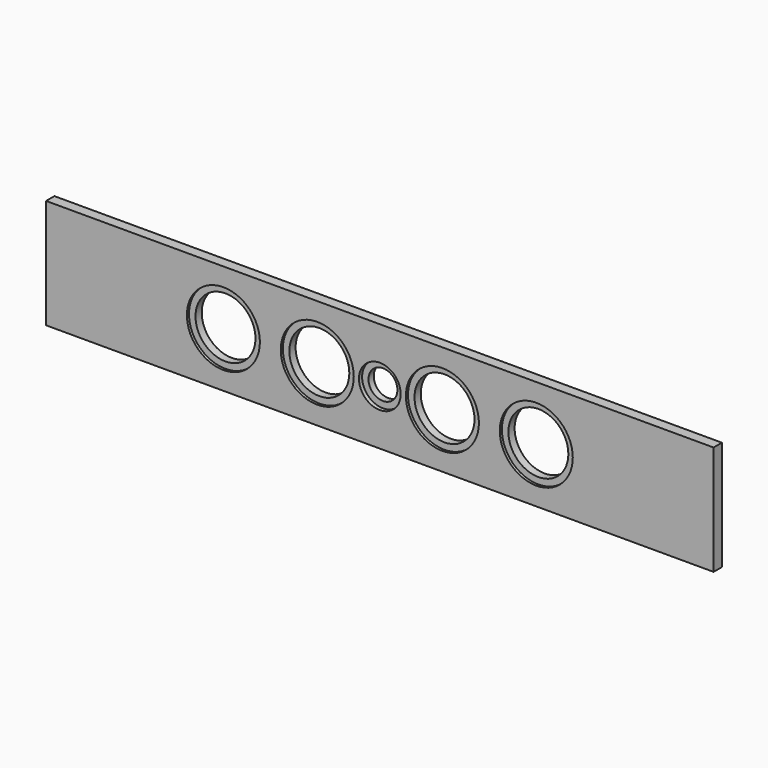
from build123d import *

# Parameters (mm, degrees)
SKETCH_W        = 812.8
SKETCH_H        = 133.35
PAD_DEPTH       = 12.7
SKETCH001_R     = 17.5895
SKETCH001_R_2   = 36.5125
POCKET_DEPTH    = 12.701
SKETCH002_R     = 44.45
POCKET001_DEPTH = 3.175
SKETCH003_R     = 25.4
POCKET002_DEPTH = 4.7625


with BuildPart() as part:
    # Sketch → Pad (new body)
    with BuildSketch(Plane.XZ):
        with Locations((406.4, 66.675)):
            Rectangle(SKETCH_W, SKETCH_H)
    extrude(amount=PAD_DEPTH)

    # Sketch001 (on Face6 of Pad) → Pocket (cut, through all)
    with BuildSketch(Plane.XZ.offset(12.7)):
        with Locations((406.4, 66.675)):
            Circle(SKETCH001_R)
        with Locations((330.2, 66.675)):
            Circle(SKETCH001_R_2)
        with Locations((215.9, 66.675)):
            Circle(SKETCH001_R_2)
        with Locations((596.9, 66.675)):
            Circle(SKETCH001_R_2)
        with Locations((482.6, 66.675)):
            Circle(SKETCH001_R_2)
    extrude(amount=-POCKET_DEPTH, mode=Mode.SUBTRACT)

    # Sketch002 (on Face5 of Pocket) → Pocket001 (cut)
    with BuildSketch(Plane.XZ.offset(12.7)):
        with Locations((215.9, 66.675)):
            Circle(SKETCH002_R)
        with Locations((330.2, 66.675)):
            Circle(SKETCH002_R)
        with Locations((482.6, 66.675)):
            Circle(SKETCH002_R)
        with Locations((596.9, 66.675)):
            Circle(SKETCH002_R)
    extrude(amount=-POCKET001_DEPTH, mode=Mode.SUBTRACT)

    # Sketch003 (on Face5 of Pocket001) → Pocket002 (cut)
    with BuildSketch(Plane.XZ.offset(12.7)):
        with Locations((406.4, 66.675)):
            Circle(SKETCH003_R)
    extrude(amount=-POCKET002_DEPTH, mode=Mode.SUBTRACT)


solid = part.part
